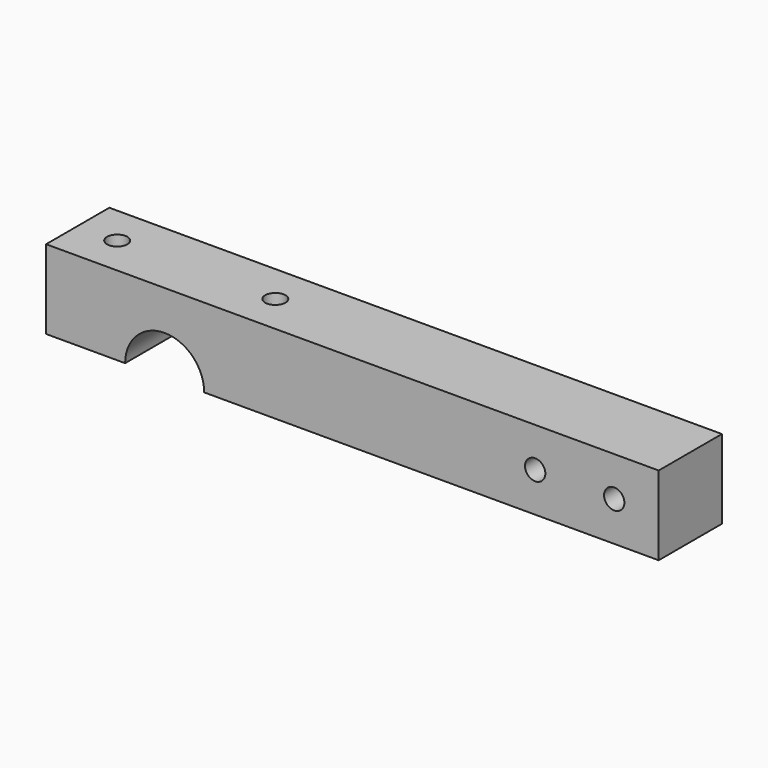
from build123d import *

# Parameters (mm, degrees)
F0_W     = 196.85
F0_H     = 25.4
F1_DEPTH = 25.4
F2_R     = 12.7
F4_DEPTH = 25.4
F5_D     = 6.5278
F7_D     = 6.5278


with BuildPart() as f1:
    # F0 (on Front) → F1 (new body)
    with BuildSketch(Plane.XZ):
        with Locations((98.425, 12.7)):
            Rectangle(F0_W, F0_H)
    extrude(amount=F1_DEPTH)

    # F2 (on face) → F4 (cut)
    with BuildSketch(Plane.XZ.offset(25.4)):
        with Locations((38.1, 0)):
            Circle(F2_R)
    extrude(amount=-F4_DEPTH, mode=Mode.SUBTRACT)

    # F5 (through all)
    with Locations(Plane.XZ.offset(25.4)):
        with Locations((157.1625, 12.7), (182.5625, 12.7)):
            Hole(F5_D / 2)

    # F7 (through all)
    with Locations(Plane(origin=(0, 0, 0), x_dir=(1, 0, 0), z_dir=(0, 0, -1))):
        with Locations((12.7, 12.7), (63.5, 12.7)):
            Hole(F7_D / 2)


solid = f1.part
